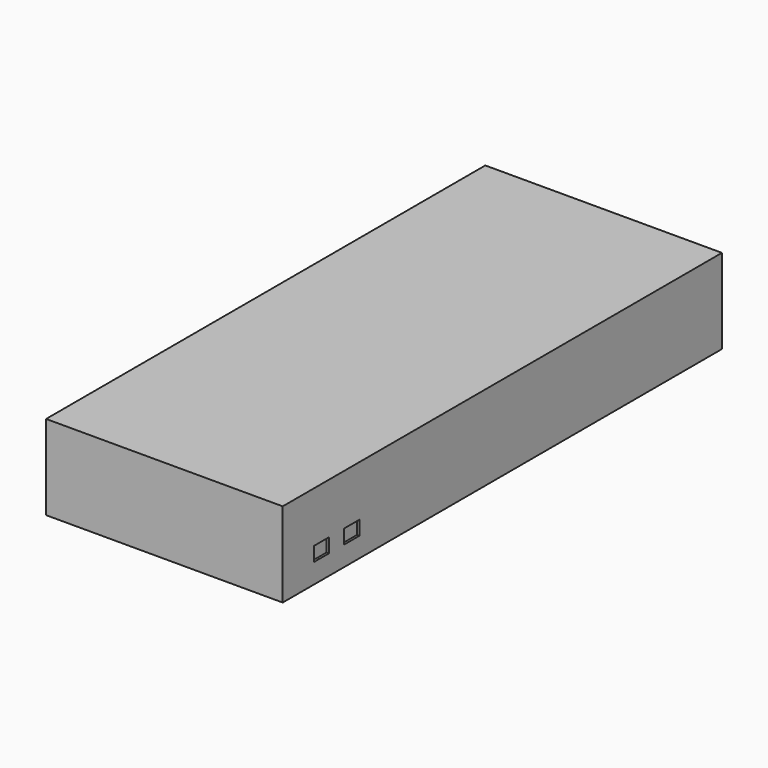
from build123d import *

# Parameters (mm, degrees)
F1_W     = 50
F1_H     = 116
F2_DEPTH = 17.9
F3_W     = 4
F3_H     = 3
F4_DEPTH = 0.5


with BuildPart() as f2:
    # F1 (on Top) → F2 (new body)
    with BuildSketch(Plane.XY):
        Rectangle(F1_W, F1_H)
    extrude(amount=F2_DEPTH)

    # F3 (on face) → F4 (cut)
    with BuildSketch(Plane.YZ.offset(25)):
        with Locations((-47.785207957, 5.6927793063)):
            Rectangle(F3_W, F3_H)
        with Locations((-39.785207957, 5.6927793063)):
            Rectangle(F3_W, F3_H)
    extrude(amount=-F4_DEPTH, mode=Mode.SUBTRACT)


solid = f2.part
